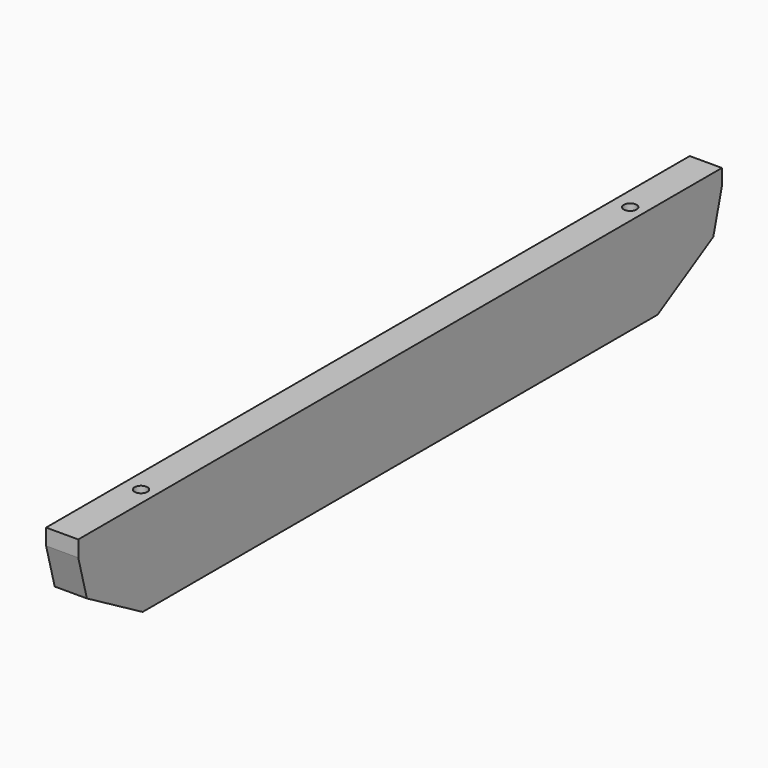
from build123d import *

# Parameters (mm, degrees)
F1_DEPTH = 20
F4_D     = 8
F4_DEPTH = 30
F4_TIP   = 2.4034424761
F5_D     = 8
F5_DEPTH = 10
F5_TIP   = 2.4034424761


with BuildPart() as f1:
    # F0 (on Right) → F1 (new body)
    with BuildSketch(Plane.YZ):
        Polygon((246.8808323145, 30.0215791241), (246.8808323145, 40.0215791241), (-253.1191676855, 40.0215791241), (-253.1191676855, 30.0215791241), (-246.4204378747, 5.0215791241), (-203.1191676855, -19.9784208759), (196.8808323145, -19.9784208759), (240.1821025037, 5.0215791241), align=None)
    extrude(amount=F1_DEPTH)

    # F4
    with Locations(Plane.XY.offset(40.0215791241)):
        with Locations((11, 186.8808323145), (11, -193.1191676855)):
            Hole(F4_D / 2, depth=F4_DEPTH)
            with Locations((0, 0, -(F4_DEPTH + F4_TIP / 2))):  # 118° drill point
                Cone(0, F4_D / 2, F4_TIP, mode=Mode.SUBTRACT)

    # F5
    with Locations(Plane(origin=(0, 0, 0), x_dir=(0, -1, 0), z_dir=(-1, 0, 0))):
        with Locations((153.1191676855, -10.9784208759), (-146.8808323145, -10.9784208759)):
            Hole(F5_D / 2, depth=F5_DEPTH)
            with Locations((0, 0, -(F5_DEPTH + F5_TIP / 2))):  # 118° drill point
                Cone(0, F5_D / 2, F5_TIP, mode=Mode.SUBTRACT)


solid = f1.part
